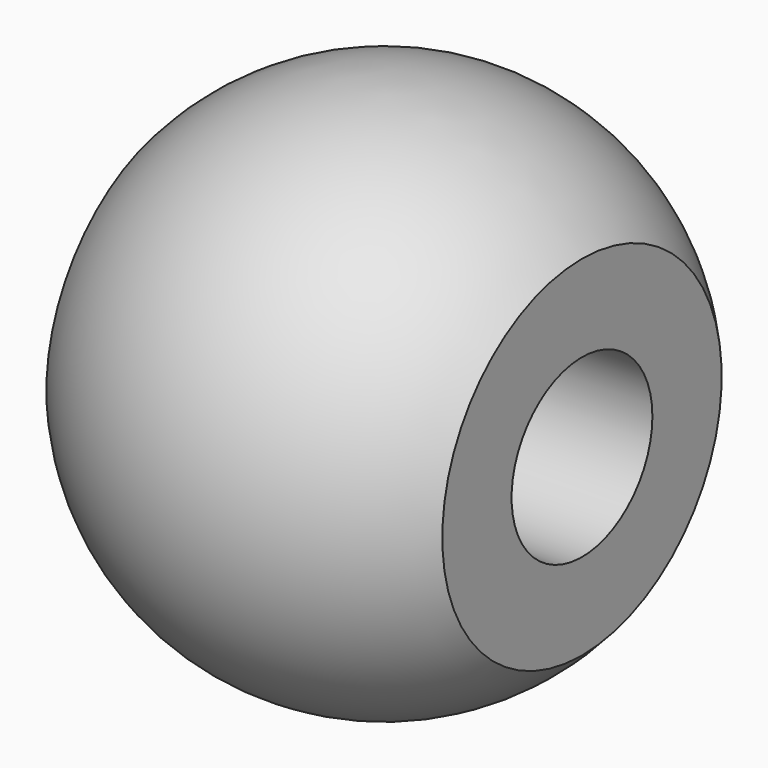
from build123d import *

# Parameters (mm, degrees)
F3_D           = 4
F3_DEPTH       = 10
F3_CSINK_D     = 6
F3_CSINK_ANGLE = 90


with BuildPart() as f1:
    # F0 (on Front) → F1 (revolve)
    with BuildSketch(Plane.XZ):
        with BuildLine():
            Line((4.5, 0), (4.5, 3.968627))
            ThreePointArc((4.5, 3.968627), (0, 6), (-4.5, 3.968627))
            Line((-4.5, 3.968627), (-4.5, 0))
            Line((-4.5, 0), (4.5, 0))
        make_face()
    revolve(axis=Axis((1.147769, 0, 0), (1, 0, 0)))

    # F3
    with Locations(Plane(origin=(-4.5, 0, 0), x_dir=(0, -1, 0), z_dir=(-1, 0, 0))):
        with Locations((0, 0)):
            CounterSinkHole(F3_D / 2, F3_CSINK_D / 2, depth=F3_DEPTH, counter_sink_angle=F3_CSINK_ANGLE)


solid = f1.part
